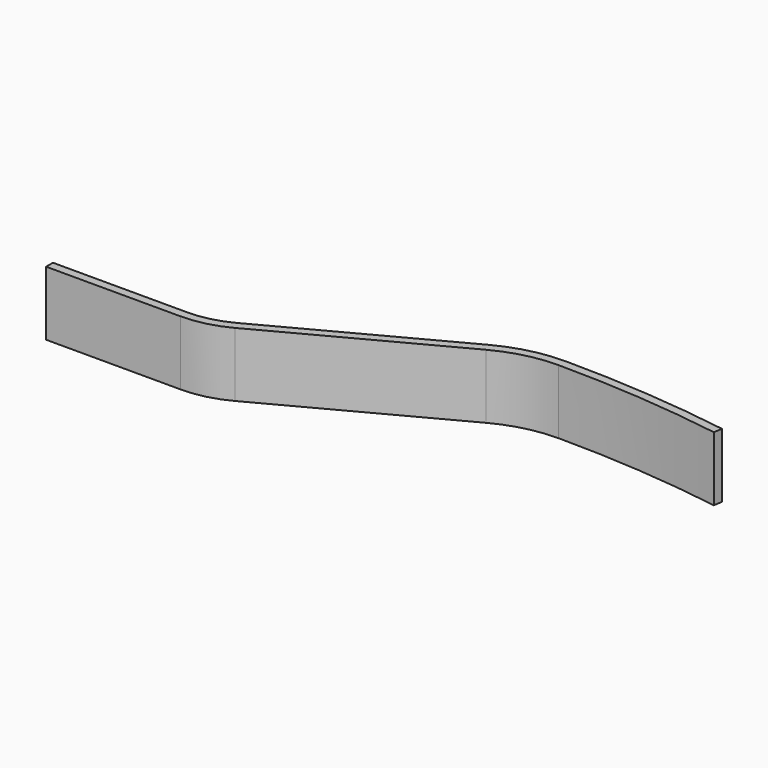
from build123d import *

# Parameters (mm, degrees)
F1_DEPTH = 15


with BuildPart() as f1:
    # F0 (on Top) → F1 (new body)
    with BuildSketch(Plane.XY):
        with BuildLine():
            Line((0, 2), (0, 0))
            Line((0, 0), (31.39012, 0))
            ThreePointArc((31.39012, 0), (36.833363, 0.668346), (41.95323, 2.633679))
            Line((41.95323, 2.633679), (83.010293, 24.464107))
            ThreePointArc((83.010293, 24.464107), (89.836783, 27.084551), (97.09444, 27.975679))
            ThreePointArc((97.09444, 27.975679), (116.452329, 27.225097), (135.693981, 24.977856))
            Line((135.693981, 24.977856), (136.002777, 26.953874))
            ThreePointArc((136.002777, 26.953874), (116.607192, 29.219092), (97.09444, 29.975679))
            ThreePointArc((97.09444, 29.975679), (89.352939, 29.025142), (82.07135, 26.230002))
            Line((82.07135, 26.230002), (41.014287, 4.399574))
            ThreePointArc((41.014287, 4.399574), (36.349519, 2.608938), (31.39012, 2))
            Line((31.39012, 2), (0, 2))
        make_face()
    extrude(amount=F1_DEPTH)


solid = f1.part
